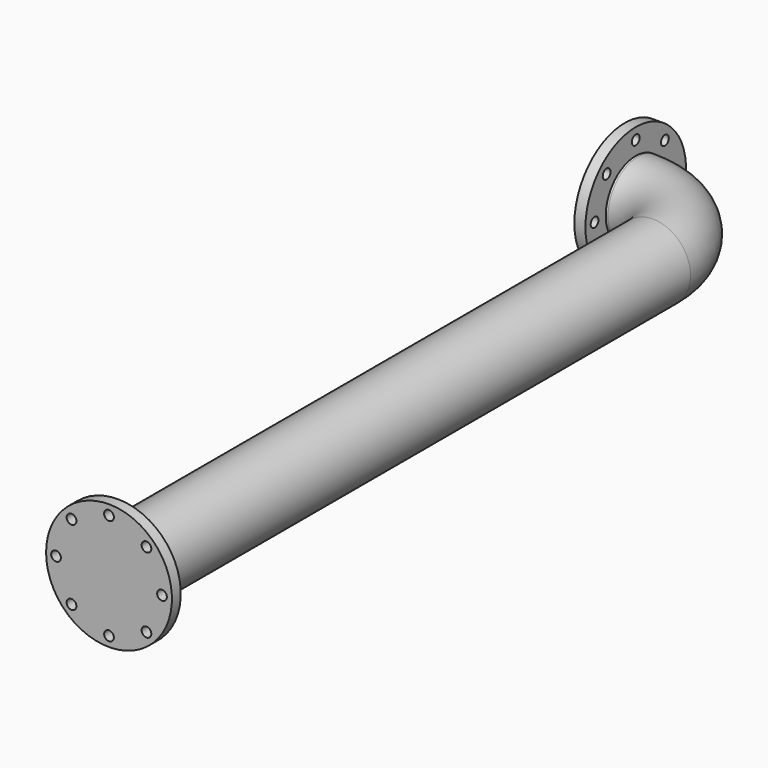
from build123d import *

# Parameters (mm, degrees)
F0_R     = 85
F5_R     = 11
F6_DEPTH = 25
F7_R     = 142.5
F7_R_2   = 11
F7_R_3   = 85
F8_DEPTH = 25


with BuildPart() as f4:
    # F4: sweep along a path in F4_path
    with BuildLine(Plane(origin=(0, 0, 0), x_dir=(0, 1, 0), z_dir=(0, 0, 1))) as f4_path:
        Line((0, 0), (0, -30))
        ThreePointArc((0, -30), (-49.7918471983, -150.2081528017), (-170, -200))
        Line((-170, -200), (-1710, -200))
    # F0 (on Right) → F4 (sweep)
    with BuildSketch(Plane.YZ):
        Circle(F0_R)
    sweep(path=f4_path.line)

    # F5 (on face) → F6 (join)
    with BuildSketch(Plane.XZ.offset(1710)):
        with BuildLine():
            ThreePointArc((84.4, 10.0816665289), (78.6809157211, 32.1607447254), (67.296875, 51.9242777055))
            ThreePointArc((67.296875, 51.9242777055), (57.5, 0), (67.296875, -51.9242777055))
            ThreePointArc((67.296875, -51.9242777055), (78.6809157211, -32.1607447254), (84.4, -10.0816665289))
            ThreePointArc((84.4, -10.0816665289), (69, 0), (84.4, 10.0816665289))
        make_face()
        with BuildLine():
            ThreePointArc((67.296875, -51.9242777055), (226.4202071103, -140.0293635501), (342.5, 0))
            ThreePointArc((342.5, 0), (226.4202071103, 140.0293635501), (67.296875, 51.9242777055))
            ThreePointArc((67.296875, 51.9242777055), (78.6809157211, 32.1607447254), (84.4, 10.0816665289))
            ThreePointArc((84.4, 10.0816665289), (89.2032602919, 6.0249481326), (91, 0))
            ThreePointArc((91, 0), (89.2032602919, -6.0249481326), (84.4, -10.0816665289))
            ThreePointArc((84.4, -10.0816665289), (78.6809157211, -32.1607447254), (67.296875, -51.9242777055))
        make_face()
        with Locations((115.1471862576, -84.8528137424)):
            Circle(F5_R, mode=Mode.SUBTRACT)
        with Locations((200, -120)):
            Circle(F5_R, mode=Mode.SUBTRACT)
        with Locations((284.8528137424, -84.8528137424)):
            Circle(F5_R, mode=Mode.SUBTRACT)
        with Locations((115.1471862576, 84.8528137424)):
            Circle(F5_R, mode=Mode.SUBTRACT)
        with Locations((320, 0)):
            Circle(F5_R, mode=Mode.SUBTRACT)
        with Locations((200, 120)):
            Circle(F5_R, mode=Mode.SUBTRACT)
        with Locations((284.8528137424, 84.8528137424)):
            Circle(F5_R, mode=Mode.SUBTRACT)
    extrude(amount=-F6_DEPTH)

    # F7 (on face) → F8 (join)
    with BuildSketch(Plane(origin=(0, 0, 0), x_dir=(0, -1, 0), z_dir=(-1, 0, 0))):
        Circle(F7_R)
        with Locations((-82.4812086801, -82.4812086801)):
            Circle(F7_R_2, mode=Mode.SUBTRACT)
        with Locations((0, -116.6460439563)):
            Circle(F7_R_2, mode=Mode.SUBTRACT)
        with Locations((82.4812086801, -82.4812086801)):
            Circle(F7_R_2, mode=Mode.SUBTRACT)
        with Locations((-116.6460439563, 0)):
            Circle(F7_R_2, mode=Mode.SUBTRACT)
        with Locations((-82.4812086801, 82.4812086801)):
            Circle(F7_R_2, mode=Mode.SUBTRACT)
        Circle(F7_R_3, mode=Mode.SUBTRACT)
        with Locations((116.6460439563, 0)):
            Circle(F7_R_2, mode=Mode.SUBTRACT)
        with Locations((0, 116.6460439563)):
            Circle(F7_R_2, mode=Mode.SUBTRACT)
        with Locations((82.4812086801, 82.4812086801)):
            Circle(F7_R_2, mode=Mode.SUBTRACT)
    extrude(amount=-F8_DEPTH)


solid = f4.part
